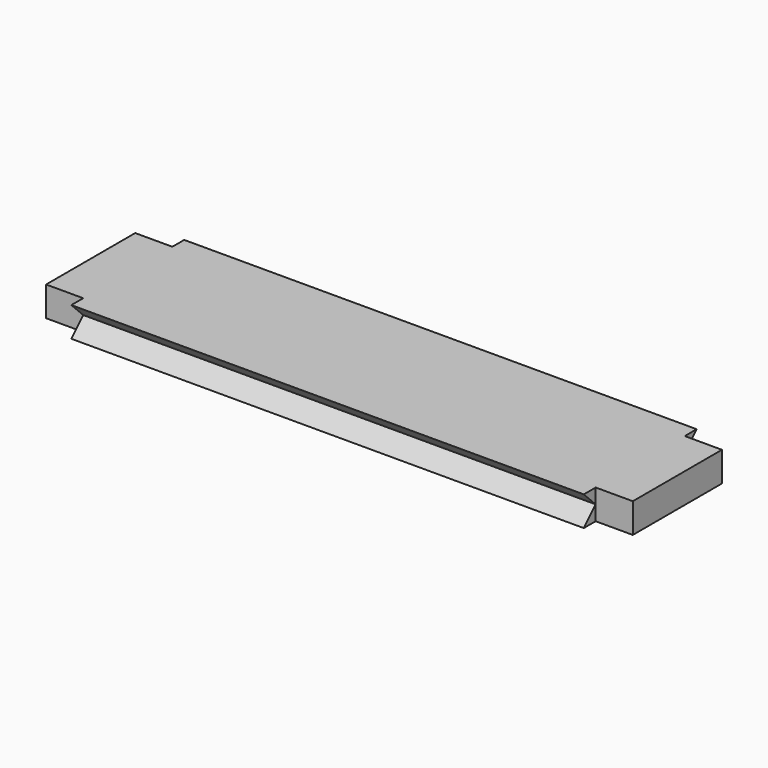
from build123d import *

# Parameters (mm, degrees)
F1_DEPTH = 8
F4_DEPTH = 148.001


with BuildPart() as f1:
    # F0 (on Top) → F1 (new body)
    with BuildSketch(Plane.XY):
        Polygon((-75.700524, 7.317285), (-85.700524, 7.317285), (-85.700524, -22.682715), (-75.700524, -22.682715), (-75.700524, -26.682715), (62.299476, -26.682715), (62.299476, -22.682715), (72.299476, -22.682715), (72.299476, 7.317285), (62.299476, 7.317285), (62.299476, 11.317285), (-75.700524, 11.317285), align=None)
    extrude(amount=F1_DEPTH)

    # F2 (on face) + F3 (on face) → F4 (cut, through all)
    with BuildSketch(Plane(origin=(-75.700524, 0, 0), x_dir=(0, -1, 0), z_dir=(-1, 0, 0))):
        Polygon((22.682715, 4), (26.682715, 0), (26.682715, 8), align=None)
    with BuildSketch(Plane(origin=(-75.700524, 0, 0), x_dir=(0, -1, 0), z_dir=(-1, 0, 0))):
        Polygon((-7.317285, 4), (-11.317285, 8), (-11.317285, 0), align=None)
    extrude(amount=-F4_DEPTH, mode=Mode.SUBTRACT)


solid = f1.part
